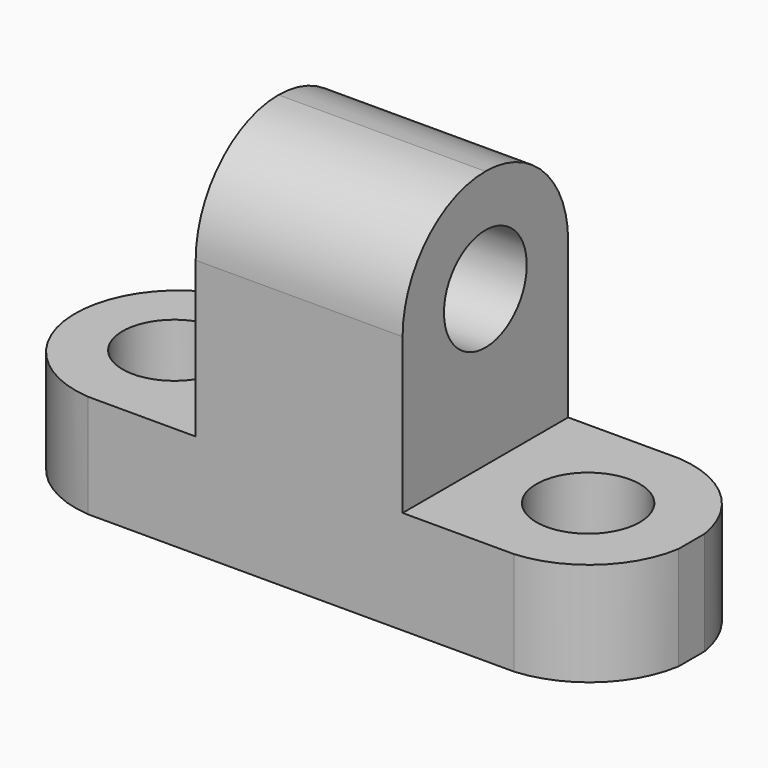
from build123d import *

# Parameters (mm, degrees)
F0_W     = 76.2
F0_H     = 25.4
F0_R     = 6.35
F1_DEPTH = 12.7
F3_DEPTH = 12.7
F4_W     = 25.4
F4_H     = 25.4
F5_DEPTH = 44.45
F7_DEPTH = 25.4
F8_R     = 6.35
F9_DEPTH = 25.4


with BuildPart() as f1:
    # F0 (on Top) → F1 (new body)
    with BuildSketch(Plane.XY):
        with Locations((6.3257696523, 12.7)):
            Rectangle(F0_W, F0_H)
        with Locations((-19.0742303477, 12.7)):
            Circle(F0_R, mode=Mode.SUBTRACT)
        with Locations((31.7257696523, 12.7)):
            Circle(F0_R, mode=Mode.SUBTRACT)
    extrude(amount=F1_DEPTH)

    # F2 (on face) → F3 (cut)
    with BuildSketch(Plane.XY.offset(12.7)):
        with BuildLine():
            ThreePointArc((-19.4995366037, 0), (-31.2612298583, 12.4208945177), (-20.1185699552, 25.4))
            Line((-20.1185699552, 25.4), (-31.7742303477, 25.4))
            Line((-31.7742303477, 25.4), (-31.7742303477, 0))
            Line((-31.7742303477, 0), (-19.4995366037, 0))
        make_face()
        with BuildLine():
            Line((44.4257696523, 25.4), (32.7468659845, 25.4))
            ThreePointArc((32.7468659845, 25.4), (40.454102952, 22.0844190513), (44.4257696523, 14.6938546396))
            Line((44.4257696523, 14.6938546396), (44.4257696523, 25.4))
        make_face()
        with BuildLine():
            ThreePointArc((44.4257696523, 10.701621252), (40.4769444267, 3.3320470648), (32.8087434173, 0))
            Line((32.8087434173, 0), (44.4257696523, 0))
            Line((44.4257696523, 0), (44.4257696523, 10.701621252))
        make_face()
    extrude(amount=-F3_DEPTH, mode=Mode.SUBTRACT)

    # F4 (on Top) → F5 (join)
    with BuildSketch(Plane.XY):
        with Locations((6.41142525, 12.7)):
            Rectangle(F4_W, F4_H)
    extrude(amount=F5_DEPTH)

    # F6 (on face) → F7 (cut)
    with BuildSketch(Plane(origin=(-6.28857475, 0, 0), x_dir=(0, -1, 0), z_dir=(-1, 0, 0))):
        with BuildLine():
            ThreePointArc((-25.4, 31.75), (-21.6802561211, 40.7302561211), (-12.7, 44.45))
            Line((-12.7, 44.45), (-25.4, 44.45))
            Line((-25.4, 44.45), (-25.4, 31.75))
        make_face()
        with BuildLine():
            ThreePointArc((-12.7, 44.45), (-3.7197438789, 40.7302561211), (0, 31.75))
            Line((0, 31.75), (0, 44.45))
            Line((0, 44.45), (-12.7, 44.45))
        make_face()
    extrude(amount=-F7_DEPTH, mode=Mode.SUBTRACT)

    # F8 (on face) → F9 (cut)
    with BuildSketch(Plane(origin=(-6.28857475, 0, 0), x_dir=(0, -1, 0), z_dir=(-1, 0, 0))):
        with Locations((-12.7, 31.75)):
            Circle(F8_R)
    extrude(amount=-F9_DEPTH, mode=Mode.SUBTRACT)


solid = f1.part
